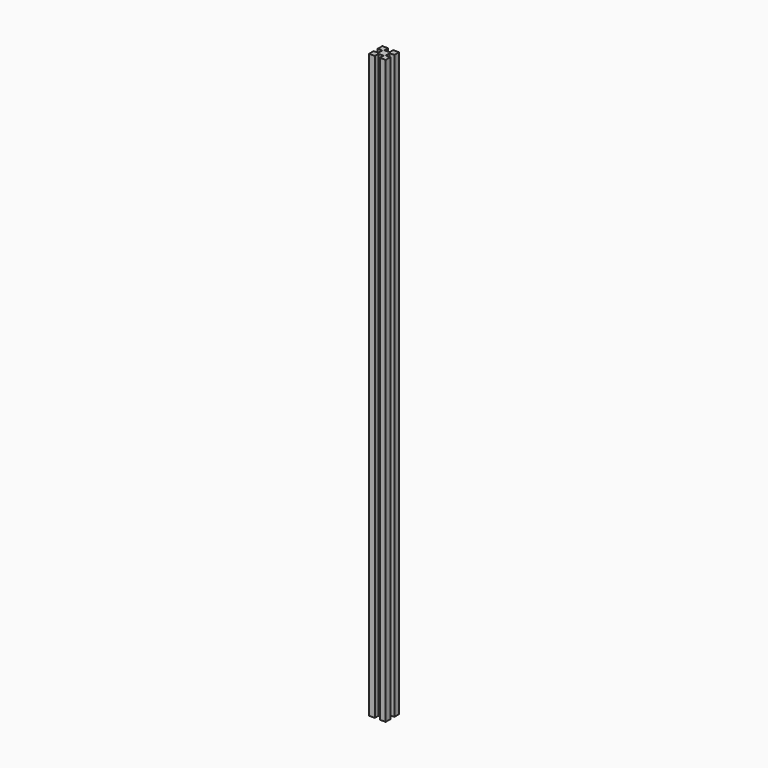
from build123d import *

# Parameters (mm, degrees)
F1_DEPTH = 700


with BuildPart() as f1:
    # F0 (on Top) → F1 (new body)
    with BuildSketch(Plane.XY):
        Polygon((0, 7), (0, 0), (7, 0), (7, 5.5), (13, 5.5), (13, 0), (20, 0), (20, 7), (14.5, 7), (14.5, 13), (20, 13), (20, 20), (13, 20), (13, 14.5), (7, 14.5), (7, 20), (0, 20), (0, 13), (5.5, 13), (5.5, 7), align=None)
    extrude(amount=F1_DEPTH)


solid = f1.part
